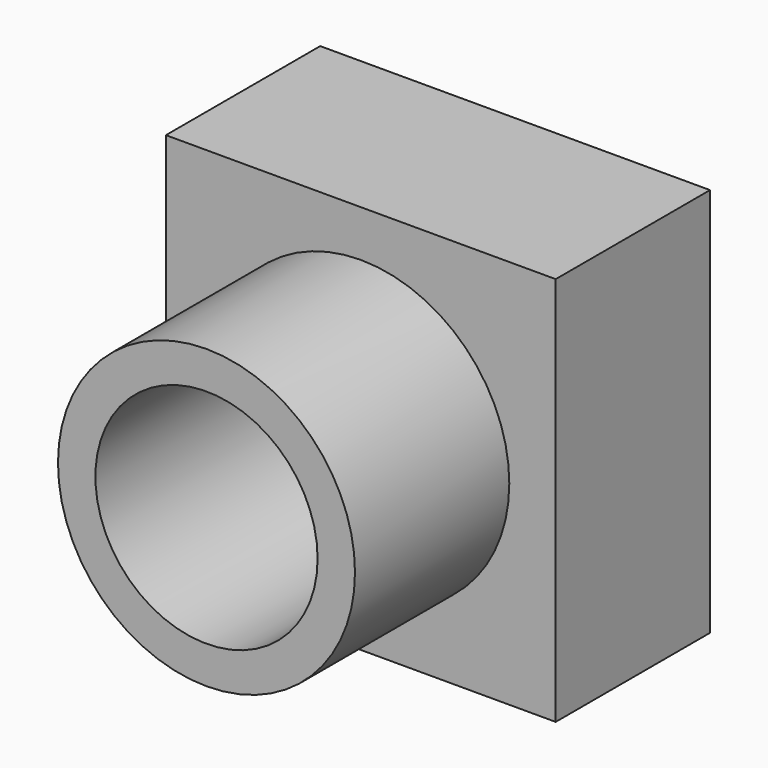
from build123d import *

# Parameters (mm, degrees)
F0_W     = 51.3334
F0_H     = 51.331718
F0_R     = 19.555441
F1_DEPTH = 25.4
F0_R_2   = 14.632326
F2_DEPTH = 50.8


with BuildPart() as f1:
    # F0 (on Front) → F1 (new body)
    with BuildSketch(Plane.XZ):
        with Locations((0, 0.000841)):
            Rectangle(F0_W, F0_H)
        Circle(F0_R, mode=Mode.SUBTRACT)
    extrude(amount=F1_DEPTH)

    # F0 (on Front) → F2 (join)
    with BuildSketch(Plane.XZ):
        Circle(F0_R)
        Circle(F0_R_2, mode=Mode.SUBTRACT)
    extrude(amount=F2_DEPTH)


solid = f1.part
